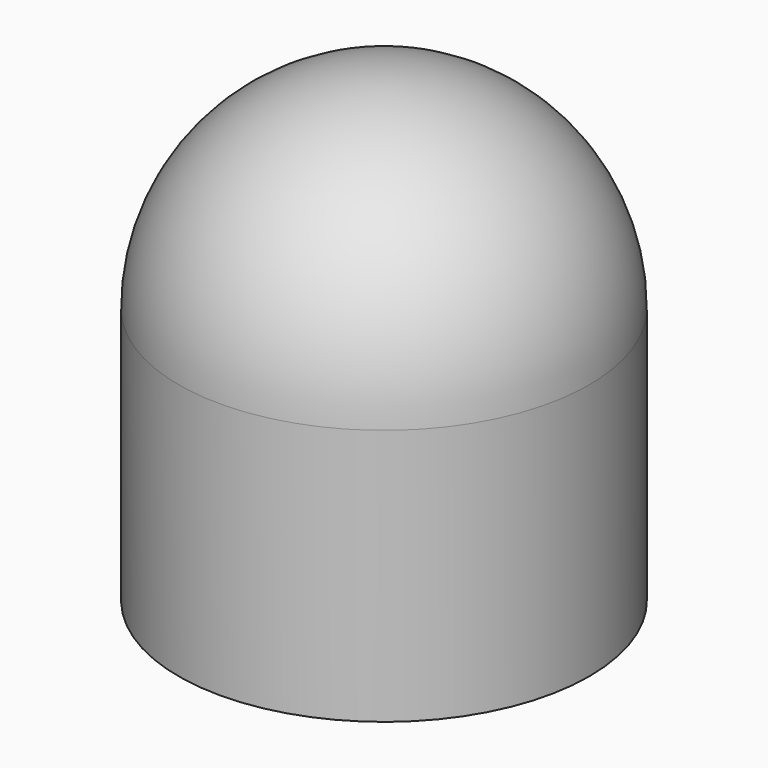
from build123d import *

# Parameters (mm, degrees)
F1_FACE_R = 7.62


with BuildPart() as f1:
    # F0 (on Front) → F1 (revolve)
    with BuildSketch(Plane.XZ):
        with BuildLine():
            Line((-7.62, 4.3819724477), (-7.62, -5.1430275523))
            Line((-7.62, -5.1430275523), (0, -5.1430275523))
            Line((0, -5.1430275523), (0, 12.0019724477))
            ThreePointArc((0, 12.0019724477), (-5.3881536726, 9.7701261203), (-7.62, 4.3819724477))
        make_face()
    revolve(axis=Axis((0, 0, 3.4294724477), (0, 0, -1)))

    # F1_face (on face) → F2 section 0
    with BuildSketch(Plane(origin=(0, 0, -5.1430275523), x_dir=(1, 0, 0), z_dir=(0, 0, -1)), mode=Mode.PRIVATE) as f2_s0:
        Circle(F1_FACE_R)
    loft([f2_s0.sketch, Vertex(0, 0, 0)], mode=Mode.SUBTRACT)


solid = f1.part
